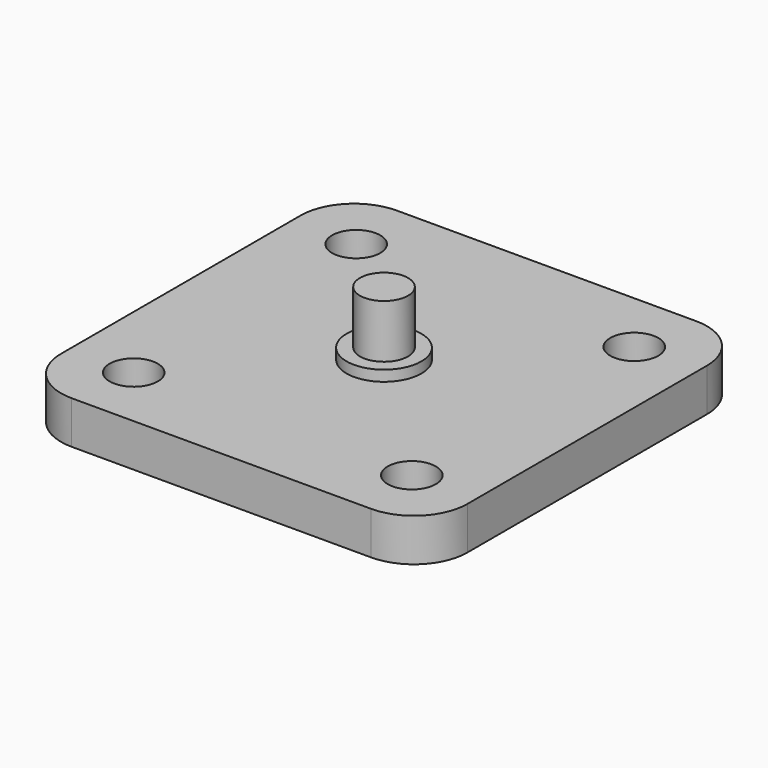
from build123d import *

# Parameters (mm, degrees)
F0_W     = 38
F0_H     = 38
F0_R     = 2.25
F0_R_2   = 3.5
F1_DEPTH = 4
F2_DEPTH = 1
F3_DEPTH = 6
F4_R     = 5


with BuildPart() as f1:
    # F0 (on Top) → F1 (new body)
    with BuildSketch(Plane.XY):
        Rectangle(F0_W, F0_H)
        with Locations((-13, -13)):
            Circle(F0_R, mode=Mode.SUBTRACT)
        with Locations((13, -13)):
            Circle(F0_R, mode=Mode.SUBTRACT)
        with Locations((-13, 13)):
            Circle(F0_R, mode=Mode.SUBTRACT)
        Circle(F0_R_2, mode=Mode.SUBTRACT)
        with Locations((13, 13)):
            Circle(F0_R, mode=Mode.SUBTRACT)
        Circle(F0_R_2)
        Circle(F0_R, mode=Mode.SUBTRACT)
        Circle(F0_R)
    extrude(amount=-F1_DEPTH)

    # F0 (on Top) → F2 (join)
    with BuildSketch(Plane.XY):
        Circle(F0_R_2)
        Circle(F0_R, mode=Mode.SUBTRACT)
    extrude(amount=F2_DEPTH)

    # F0 (on Top) → F3 (join)
    with BuildSketch(Plane.XY):
        Circle(F0_R)
    extrude(amount=F3_DEPTH)

    # F4
    f4_edges = [f1.edges().sort_by_distance(p)[0] for p in [
        (-19, -19, -2),
        (19, -19, -2),
        (19, 19, -2),
        (-19, 19, -2),
    ]]
    fillet(f4_edges, radius=F4_R)


solid = f1.part
